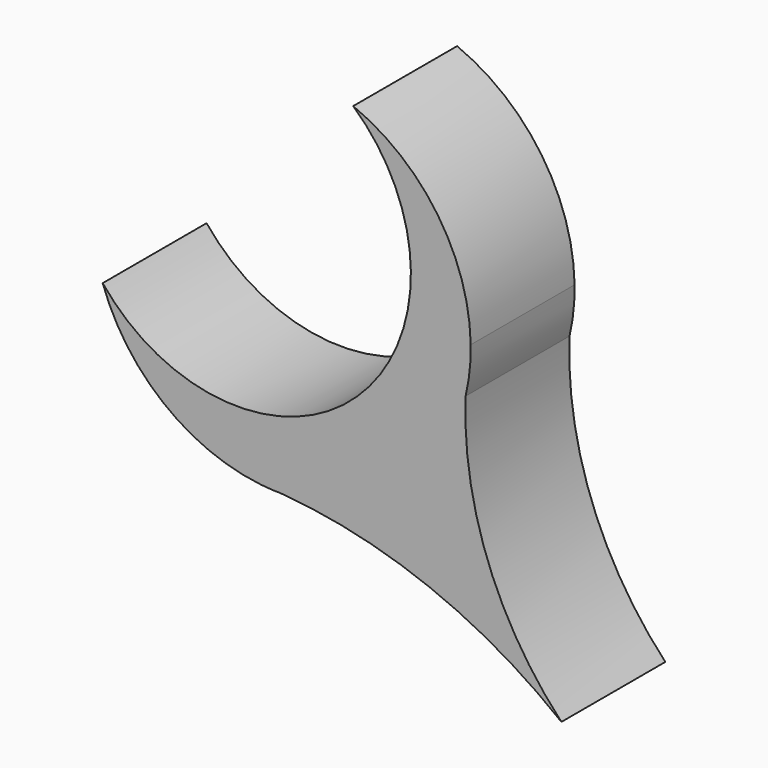
from build123d import *

# Parameters (mm, degrees)
F1_DEPTH = 19.05


with BuildPart() as f1:
    # F0 (on Front) → F1 (new body)
    with BuildSketch(Plane.XZ):
        with BuildLine():
            ThreePointArc((36.753029, 40.957993), (37.281433, 3.593556), (0, 6.138184))
            ThreePointArc((0, 6.138184), (8.90252, -6.437058), (23.138397, -12.330394))
            ThreePointArc((23.138397, -12.330394), (24.611231, -12.401927), (26.082398, -12.502042))
            ThreePointArc((26.082398, -12.502042), (43.391463, -6.559586), (53.243299, 8.863053))
            ThreePointArc((53.243299, 8.863053), (53.500008, 12.310691), (53.987336, 15.733354))
            ThreePointArc((53.987336, 15.733354), (49.151042, 30.928882), (36.753029, 40.957993))
        make_face()
        with BuildLine():
            ThreePointArc((26.082398, -12.502042), (24.611231, -12.401927), (23.138397, -12.330394))
            ThreePointArc((23.138397, -12.330394), (24.608117, -12.455329), (26.082398, -12.502042))
        make_face()
        with BuildLine():
            ThreePointArc((53.243299, 8.863053), (53.829881, 12.274967), (53.987336, 15.733354))
            ThreePointArc((53.987336, 15.733354), (53.500008, 12.310691), (53.243299, 8.863053))
        make_face()
        with BuildLine():
            ThreePointArc((53.243299, 8.863053), (43.391463, -6.559586), (26.082398, -12.502042))
            ThreePointArc((26.082398, -12.502042), (47.890891, -17.50496), (67.295052, -28.645788))
            ThreePointArc((67.295052, -28.645788), (56.475186, -11.312691), (53.243299, 8.863053))
        make_face()
    extrude(amount=F1_DEPTH)


solid = f1.part
